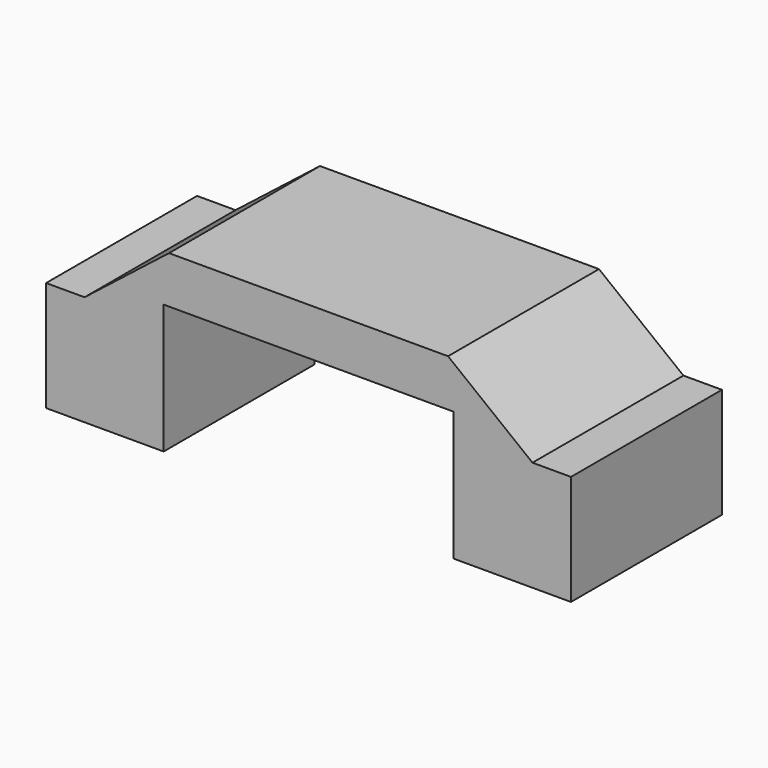
from build123d import *

# Parameters (mm, degrees)
F1_DEPTH      = 25.4
F1_DEPTH_BACK = 25.4


with BuildPart() as f1:
    # F0 (on Front) → F1 (new body, two sides)
    with BuildSketch(Plane.XZ) as f1_sk:
        Polygon((37.558652, 33.529371), (0, 33.529371), (0, 20.865917), (38.99768, 20.865917), (38.99768, -13.958579), (70.656314, -13.958579), (70.656314, 15.685413), (60.295302, 15.685413), align=None)
        Polygon((0, 20.865917), (0, 33.529371), (-37.558652, 33.529371), (-60.295302, 15.685413), (-70.656314, 15.685413), (-70.656314, -13.958579), (-38.99768, -13.958579), (-38.99768, 20.865917), align=None)
    extrude(amount=F1_DEPTH)
    extrude(f1_sk.sketch, amount=-F1_DEPTH_BACK)


solid = f1.part
